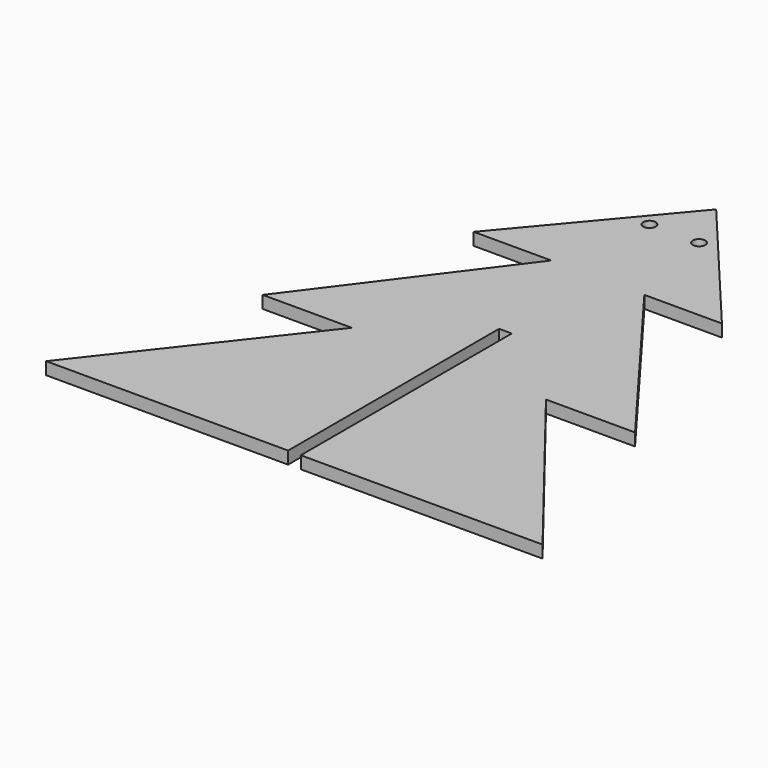
from build123d import *

# Parameters (mm, degrees)
F1_DEPTH = 2.54
F3_D     = 2.54


with BuildPart() as f1:
    # F0 (on Top) → F1 (new body)
    with BuildSketch(Plane.XY):
        Polygon((-1.27, 0), (-19.869665136, 0), (-50.8, -39.5391920381), (-1.27, -39.5391920381), align=None)
        Polygon((50.8, -39.5391920381), (19.869665136, 0), (1.33, 0), (1.33, -39.5391920381), align=None)
        Polygon((0, 25.4), (-19.869665136, 0), (-1.27, 0), (-1.27, 14.4231079619), (1.33, 14.4231079619), (1.33, 0), (19.869665136, 0), align=None)
        Polygon((9.525, 38.1), (-9.525, 38.1), (-38.1, 0), (-19.869665136, 0), (0, 25.4), (19.869665136, 0), (38.1, 0), align=None)
        Polygon((0, 50.8), (-9.525, 38.1), (9.525, 38.1), align=None)
        Polygon((25.4, 38.1), (0, 68.3796978479), (-25.4, 38.1), (-9.525, 38.1), (0, 50.8), (9.525, 38.1), align=None)
    extrude(amount=F1_DEPTH)

    # F3 (through all)
    with Locations(Plane.XY.offset(2.54)):
        with Locations((-5.08, 57.6531253755), (5.08, 57.6531253755)):
            Hole(F3_D / 2)


solid = f1.part
